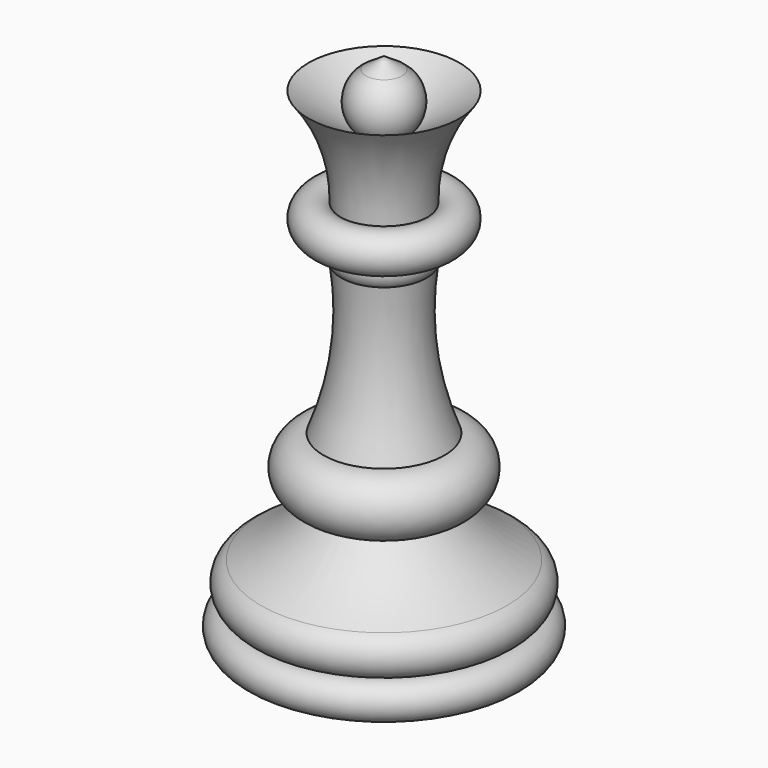
from build123d import *


with BuildPart() as f1:
    # F0 (on Front) → F1 (revolve)
    with BuildSketch(Plane.XZ):
        with BuildLine():
            Line((0, -34.361692), (0, 35.488308))
            Line((0, 35.488308), (0, 40.972862))
            Line((0, 40.972862), (0, 46.005211))
            Line((0, 46.005211), (-2.768757, 44.199076))
            ThreePointArc((-2.768757, 44.199076), (-5.127757, 39.843692), (-2.768757, 35.488308))
            Line((-2.768757, 35.488308), (-11.670997, 41.295484))
            ThreePointArc((-11.670997, 41.295484), (-7.819182, 34.152677), (-6.582389, 26.132297))
            ThreePointArc((-6.582389, 26.132297), (-11.670997, 23.937259), (-6.582389, 21.742221))
            ThreePointArc((-6.582389, 21.742221), (-7.338453, 19.841189), (-6.582389, 17.940158))
            ThreePointArc((-6.582389, 17.940158), (-6.431711, 6.139584), (-9.356009, -5.293907))
            ThreePointArc((-9.356009, -5.293907), (-13.968028, -9.905926), (-9.356009, -14.517944))
            ThreePointArc((-9.356009, -14.517944), (-13.758378, -19.085105), (-19.05, -22.583468))
            ThreePointArc((-19.05, -22.583468), (-20.972857, -25.648367), (-19.05, -28.713265))
            ThreePointArc((-19.05, -28.713265), (-21.874213, -31.537479), (-19.05, -34.361692))
            Line((-19.05, -34.361692), (0, -34.361692))
        make_face()
    revolve(axis=Axis((0, 0, 0.563308), (0, 0, -1)))


solid = f1.part
